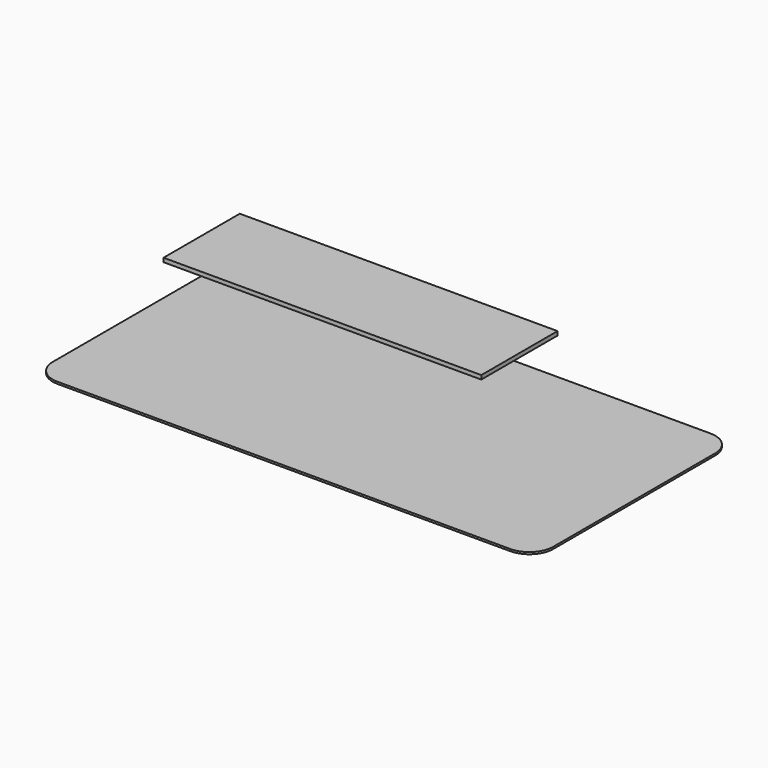
from build123d import *

# Parameters (mm, degrees)
F0_W     = 1600.2
F0_H     = 800.1
F1_DEPTH = 6.35
F2_R     = 76.2
F4_W     = 1016
F4_H     = 304.8
F5_DEPTH = 12.7


with BuildPart() as f1:
    # F0 (on Top) → F1 (new body)
    with BuildSketch(Plane.XY):
        Rectangle(F0_W, F0_H)
    extrude(amount=F1_DEPTH)

    # F2
    f2_edges = [f1.edges().sort_by_distance(p)[0] for p in [
        (-800.1, -400.05, 3.175),
        (800.1, -400.05, 3.175),
        (-800.1, 400.05, 3.175),
        (800.1, 400.05, 3.175),
    ]]
    fillet(f2_edges, radius=F2_R)


with BuildPart() as f5:
    # F4 (on offset) → F5 (new body)
    with BuildSketch(Plane.XY.offset(107.95)):
        with Locations((-290.932076, 269.875688)):
            Rectangle(F4_W, F4_H)
    extrude(amount=F5_DEPTH)


solid = Compound([f1.part, f5.part])
